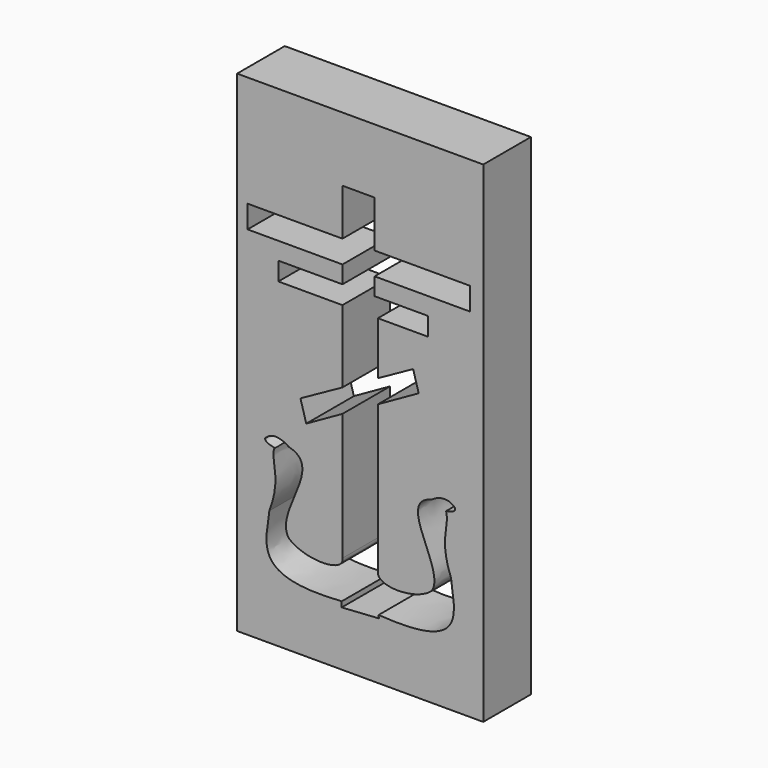
from build123d import *

# Parameters (mm, degrees)
F0_W     = 19.685
F0_H     = 39.243
F1_DEPTH = 4.7625


with BuildPart() as f1:
    # F0 (on Front) → F1 (new body)
    with BuildSketch(Plane.XZ):
        Rectangle(F0_W, F0_H)
        with BuildLine():
            Line((-1.416165, 10.738444), (-1.416165, 14.467826))
            Line((-1.416165, 14.467826), (1.154919, 14.467826))
            Line((1.154919, 14.467826), (1.154919, 10.738444))
            Line((1.154919, 10.738444), (8.774072, 10.738444))
            Line((8.774072, 10.738444), (8.774072, 8.923113))
            Line((8.774072, 8.923113), (1.154919, 8.923113))
            Line((1.154919, 8.923113), (1.154919, 7.524595))
            Line((1.154919, 7.524595), (5.415907, 7.524595))
            Line((5.415907, 7.524595), (5.415907, 6.059481))
            Line((5.415907, 6.059481), (1.416165, 6.059481))
            Line((1.416165, 6.059481), (1.416165, 1.835253))
            Line((1.416165, 1.835253), (4.235704, 3.396667))
            Line((4.235704, 3.396667), (4.677869, 1.835253))
            Line((4.677869, 1.835253), (1.416165, 0))
            Line((1.416165, 0), (1.416165, -11.756658))
            add(Edge.make_bspline(
                [(1.416165, -11.756658), (1.242965, -12.833442), (4.373882, -12.906026), (5.705804, -11.756658)],
                knots=[0, 0, 0, 0, 4.28964, 4.28964, 4.28964, 4.28964], degree=3))
            add(Edge.make_bspline(
                [(5.705804, -11.756658), (6.922635, -10.041888), (2.745998, -6.038307), (5.705804, -5.319911)],
                knots=[0, 0, 0, 0, 6.436747, 6.436747, 6.436747, 6.436747], degree=3))
            add(Edge.make_bspline(
                [(5.705804, -5.319911), (6.064445, -5.036285), (6.99884, -4.625151), (7.596853, -5.319911)],
                knots=[0, 0, 0, 0, 1.891049, 1.891049, 1.891049, 1.891049], degree=3))
            add(Edge.make_bspline(
                [(7.596853, -5.319911), (7.633185, -5.759441), (6.625983, -5.666271), (6.886712, -5.821177)],
                knots=[0, 0, 0, 0, 0.869234, 0.869234, 0.869234, 0.869234], degree=3))
            add(Edge.make_bspline(
                [(6.886712, -5.821177), (7.130291, -6.867712), (6.284833, -7.757668), (7.263785, -10.323707)],
                knots=[0, 0, 0, 0, 4.518291, 4.518291, 4.518291, 4.518291], degree=3))
            add(Edge.make_bspline(
                [(7.263785, -10.323707), (7.573401, -12.799004), (8.579135, -15.313338), (1.476139, -14.810471)],
                knots=[0, 0, 0, 0, 7.323106, 7.323106, 7.323106, 7.323106], degree=3))
            Line((1.476139, -14.810471), (1.491606, -15.047969))
            Line((1.491606, -15.047969), (-1.476139, -15.241242))
            Line((-1.476139, -15.241242), (-1.476139, -14.810471))
            add(Edge.make_bspline(
                [(-7.263785, -10.323707), (-7.573401, -12.799004), (-8.579135, -15.313338), (-1.476139, -14.810471)],
                knots=[0, 0, 0, 0, 7.323106, 7.323106, 7.323106, 7.323106], degree=3))
            add(Edge.make_bspline(
                [(-6.886712, -5.821177), (-7.130291, -6.867712), (-6.284833, -7.757668), (-7.263785, -10.323707)],
                knots=[0, 0, 0, 0, 4.518291, 4.518291, 4.518291, 4.518291], degree=3))
            add(Edge.make_bspline(
                [(-7.596853, -5.319911), (-7.633185, -5.759441), (-6.625983, -5.666271), (-6.886712, -5.821177)],
                knots=[0, 0, 0, 0, 0.869234, 0.869234, 0.869234, 0.869234], degree=3))
            add(Edge.make_bspline(
                [(-5.705804, -5.319911), (-6.064445, -5.036285), (-6.99884, -4.625151), (-7.596853, -5.319911)],
                knots=[0, 0, 0, 0, 1.891049, 1.891049, 1.891049, 1.891049], degree=3))
            add(Edge.make_bspline(
                [(-5.705804, -11.756658), (-6.922635, -10.041888), (-2.745998, -6.038307), (-5.705804, -5.319911)],
                knots=[0, 0, 0, 0, 6.436747, 6.436747, 6.436747, 6.436747], degree=3))
            add(Edge.make_bspline(
                [(-1.416165, -11.756658), (-1.242965, -12.833442), (-4.373882, -12.906026), (-5.705804, -11.756658)],
                knots=[0, 0, 0, 0, 4.28964, 4.28964, 4.28964, 4.28964], degree=3))
            Line((-1.416165, -11.756658), (-1.416165, -1.593658))
            Line((-1.416165, -1.593658), (-4.31391, -3.224124))
            Line((-4.31391, -3.224124), (-4.775628, -1.593658))
            Line((-4.775628, -1.593658), (-1.416165, 0.266757))
            Line((-1.416165, 0.266757), (-1.416165, 6.059481))
            Line((-1.416165, 6.059481), (-6.541871, 6.059481))
            Line((-6.541871, 6.059481), (-6.541871, 7.524595))
            Line((-6.541871, 7.524595), (-1.416165, 7.524595))
            Line((-1.416165, 7.524595), (-1.416165, 8.923113))
            Line((-1.416165, 8.923113), (-9.005928, 8.923113))
            Line((-9.005928, 8.923113), (-9.005928, 10.738444))
            Line((-9.005928, 10.738444), (-1.416165, 10.738444))
        make_face(mode=Mode.SUBTRACT)
    extrude(amount=F1_DEPTH)


solid = f1.part
